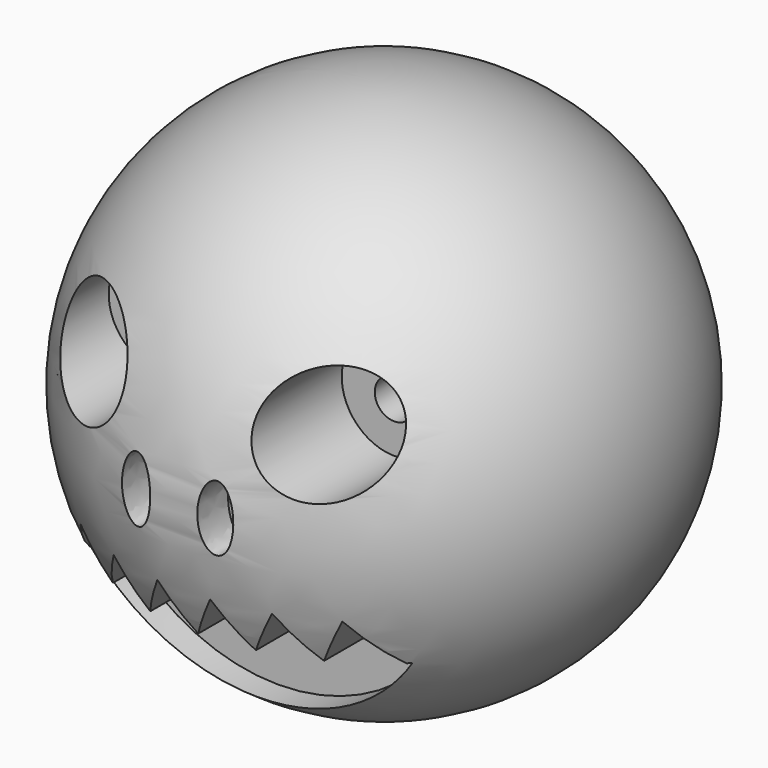
from build123d import *

# Parameters (mm, degrees)
F3_R      = 4
F4_DEPTH  = 10
F7_DEPTH  = 25
F9_DEPTH  = 25
F10_R     = 1.475
F11_DEPTH = 15
F12_DEPTH = 25


with BuildPart() as f1:
    # F0 (on Front) → F1 (revolve)
    with BuildSketch(Plane.XZ):
        with BuildLine():
            Line((0, 0), (0, 20))
            ThreePointArc((0, 20), (-20, 0), (0, -20))
            Line((0, -20), (0, 0))
        make_face()
    revolve(axis=Axis((0, 0, -10), (0, 0, -1)))

    # F3 (on offset) → F4 (cut)
    with BuildSketch(Plane.XZ.offset(10)):
        with Locations((-8.868288, 5.899725)):
            Circle(F3_R)
        with Locations((8.794304, 6.119836)):
            Circle(F3_R)
    extrude(amount=F4_DEPTH, mode=Mode.SUBTRACT)

    # F6 (on offset) → F7 (cut)
    with BuildSketch(Plane.XZ.offset(17)):
        with BuildLine():
            add(Edge.make_bspline(
                [(-3, 2.491697), (-5.107968, 2.491697), (-4.053984, -1.245848), (-3, -4.983393), (-1.946016, -1.245848), (-0.892032, 2.491697), (-3, 2.491697)],
                knots=[0, 0, 0, 2.094395, 2.094395, 4.18879, 4.18879, 6.283185, 6.283185, 6.283185], degree=2, weights=[1, 0.5, 1, 0.5, 1, 0.5, 1]))
        make_face()
        with BuildLine():
            add(Edge.make_bspline(
                [(3, 2.491697), (0.892032, 2.491697), (1.946016, -1.245848), (3, -4.983393), (4.053984, -1.245848), (5.107968, 2.491697), (3, 2.491697)],
                knots=[0, 0, 0, 2.094395, 2.094395, 4.18879, 4.18879, 6.283185, 6.283185, 6.283185], degree=2, weights=[1, 0.5, 1, 0.5, 1, 0.5, 1]))
        make_face()
    extrude(amount=F7_DEPTH, mode=Mode.SUBTRACT)

    # F8 (on offset) → F9 (cut)
    with BuildSketch(Plane.XZ.offset(10)):
        with BuildLine():
            Line((-12, -9.5), (-12.253571, -9.5))
            ThreePointArc((-12.253571, -9.5), (0, -16), (12.253571, -9.5))
            Line((12.253571, -9.5), (12, -9.5))
            Line((12, -9.5), (9.89303, -6))
            Line((9.89303, -6), (8, -9.5))
            Line((8, -9.5), (6, -6))
            Line((6, -6), (4, -9.5))
            Line((4, -9.5), (2, -6))
            Line((2, -6), (0, -9.5))
            Line((0, -9.5), (-2, -6))
            Line((-2, -6), (-4, -9.5))
            Line((-4, -9.5), (-6, -6))
            Line((-6, -6), (-8, -9.5))
            Line((-8, -9.5), (-10, -6))
            Line((-10, -6), (-12, -9.5))
        make_face()
    extrude(amount=F9_DEPTH, mode=Mode.SUBTRACT)

    # F10 (on Front) → F11 (cut)
    with BuildSketch(Plane.XZ):
        with Locations((-8.868279, 5.899623)):
            Circle(F10_R)
        with Locations((8.771721, 5.899623)):
            Circle(F10_R)
    extrude(amount=-F11_DEPTH, mode=Mode.SUBTRACT)

    # F10 (on Front) → F12 (cut)
    with BuildSketch(Plane.XZ):
        with Locations((-8.868279, 5.899623)):
            Circle(F10_R)
        with Locations((8.771721, 5.899623)):
            Circle(F10_R)
    extrude(amount=F12_DEPTH, mode=Mode.SUBTRACT)


solid = f1.part
